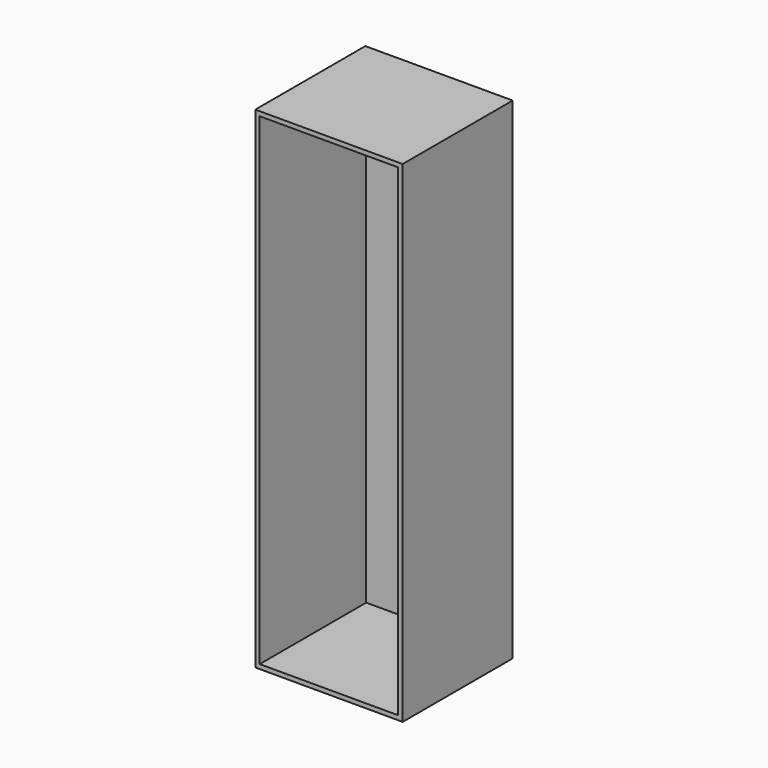
from build123d import *

# Parameters (mm, degrees)
F0_W     = 41.6900217533
F0_H     = 40.332518518
F1_DEPTH = 560
F2_DEPTH = 600
F3_DEPTH = 2000
F4_T     = -18


with BuildPart() as f1:
    # F0 (on Front) → F1 (new body)
    with BuildSketch(Plane.XZ):
        with Locations((20.8450108767, 20.166259259)):
            Rectangle(F0_W, F0_H)
    extrude(amount=F1_DEPTH)

    # F2 (add): a face of the model
    f2_faces = [f1.faces().sort_by_distance(p)[0] for p in [
        (0, -280, 20.166259259),
    ]]
    extrude(f2_faces, amount=-F2_DEPTH)

    # F3 (add): a face of the model
    f3_faces = [f1.faces().sort_by_distance(p)[0] for p in [
        (300, -280, 0),
    ]]
    extrude(f3_faces, amount=-F3_DEPTH)

    # F4
    f4_openings = [f1.faces().sort_by_distance(p)[0] for p in [
        (300, -560, 1000),
    ]]
    offset(amount=F4_T, openings=f4_openings)


solid = f1.part
